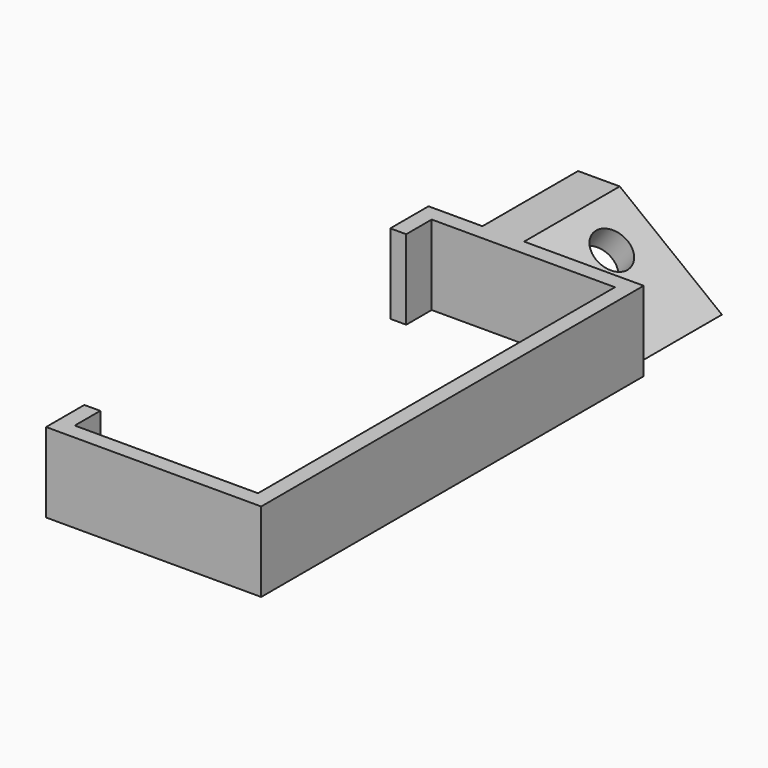
from build123d import *

# Parameters (mm, degrees)
F1_DEPTH = 10
F3_DEPTH = 15
F4_R     = 2.5
F5_DEPTH = 12.441755


with BuildPart() as f1:
    # F0 (on Top) → F1 (new body)
    with BuildSketch(Plane.XY):
        Polygon((-13.5, -30), (13.5, -30), (13.5, 30), (-13.5, 30), (-13.5, 28), (-13.5, 24), (-11.5, 24), (-11.5, 28), (11.5, 28), (11.5, -28), (-11.5, -28), (-11.5, -24), (-13.5, -24), (-13.5, -28), align=None)
    extrude(amount=F1_DEPTH)

    # F2 (on face) → F3 (join)
    with BuildSketch(Plane(origin=(0, 30, 0), x_dir=(-1, 0, 0), z_dir=(0, 1, 0))):
        Polygon((-11.324562, 0), (-6.092738, 0), (6.730338, 10), (1.498514, 10), align=None)
    extrude(amount=F3_DEPTH)

    # F4 (on face) → F5 (cut, through all)
    with BuildSketch(Plane(origin=(2.304091, 0, 2.954554), x_dir=(0.788562, 0, -0.614955), z_dir=(-0.614955, 0, -0.788562))):
        with Locations((-2.187925, -38.680334)):
            Circle(F4_R)
    extrude(amount=-F5_DEPTH, mode=Mode.SUBTRACT)


solid = f1.part
